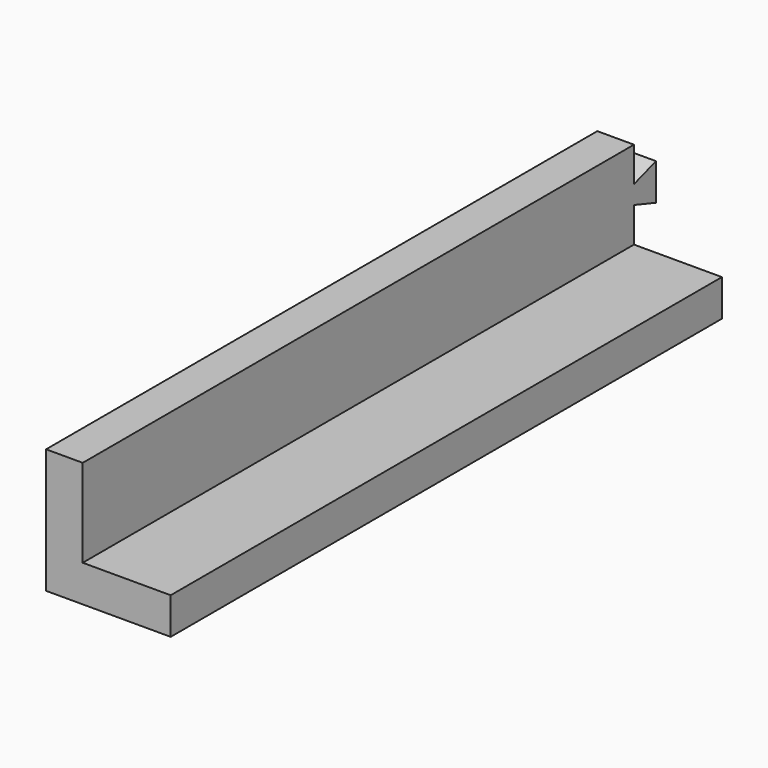
from build123d import *

# Parameters (mm, degrees)
F1_DEPTH = 5
F2_W     = 5
F2_H     = 94
F3_DEPTH = 12
F5_DEPTH = 5


with BuildPart() as f1:
    # F0 (on Top) → F1 (new body)
    with BuildSketch(Plane.XY):
        Polygon((-8.5, -47), (8.5, -47), (8.5, 47), (3.75, 47), (1.25, 47), (-8.5, 47), align=None)
    extrude(amount=F1_DEPTH)

    # F2 (on face) → F3 (join)
    with BuildSketch(Plane.XY.offset(5)):
        with Locations((-6, 0)):
            Rectangle(F2_W, F2_H)
    extrude(amount=F3_DEPTH)

    # F4 (on face) → F5 (join)
    with BuildSketch(Plane.YZ.offset(-3.5)):
        Polygon((50.75, 13.5), (47, 12.25), (47, 9.75), (50.75, 8.5), align=None)
    extrude(amount=-F5_DEPTH)


solid = f1.part
